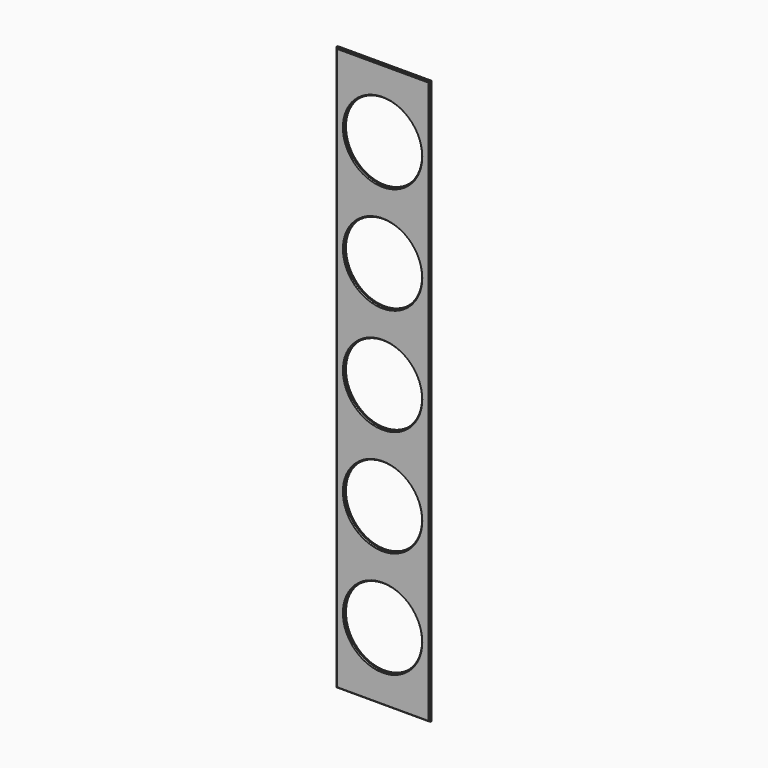
from build123d import *

# Parameters (mm, degrees)
F0_W     = 92
F0_H     = 554
F0_R     = 38
F1_DEPTH = 2.5
F2_SIZE  = 1


with BuildPart() as f1:
    # F0 (on Front) → F1 (new body)
    with BuildSketch(Plane.XZ):
        with Locations((-2.399907, 174.997145)):
            Rectangle(F0_W, F0_H)
        with Locations((-2.399907, -35.002855)):
            Circle(F0_R, mode=Mode.SUBTRACT)
        with Locations((-2.399907, 69.997145)):
            Circle(F0_R, mode=Mode.SUBTRACT)
        with Locations((-2.399907, 174.997145)):
            Circle(F0_R, mode=Mode.SUBTRACT)
        with Locations((-2.399907, 279.997145)):
            Circle(F0_R, mode=Mode.SUBTRACT)
        with Locations((-2.399907, 384.997145)):
            Circle(F0_R, mode=Mode.SUBTRACT)
    extrude(amount=F1_DEPTH)

    # F2
    f2_edges = [f1.edges().sort_by_distance(p)[0] for p in [
        (-2.399907, -2.5, -102.002855),
        (43.600093, -2.5, 174.997145),
        (-2.399907, -2.5, 451.997145),
        (-48.399907, -2.5, 174.997145),
        (-40.399907, -2.5, -35.002855),
        (-40.399907, -2.5, 69.997145),
        (-40.399907, -2.5, 174.997145),
        (-40.399907, -2.5, 279.997145),
        (-40.399907, -2.5, 384.997145),
    ]]
    chamfer(f2_edges, length=F2_SIZE)


solid = f1.part
